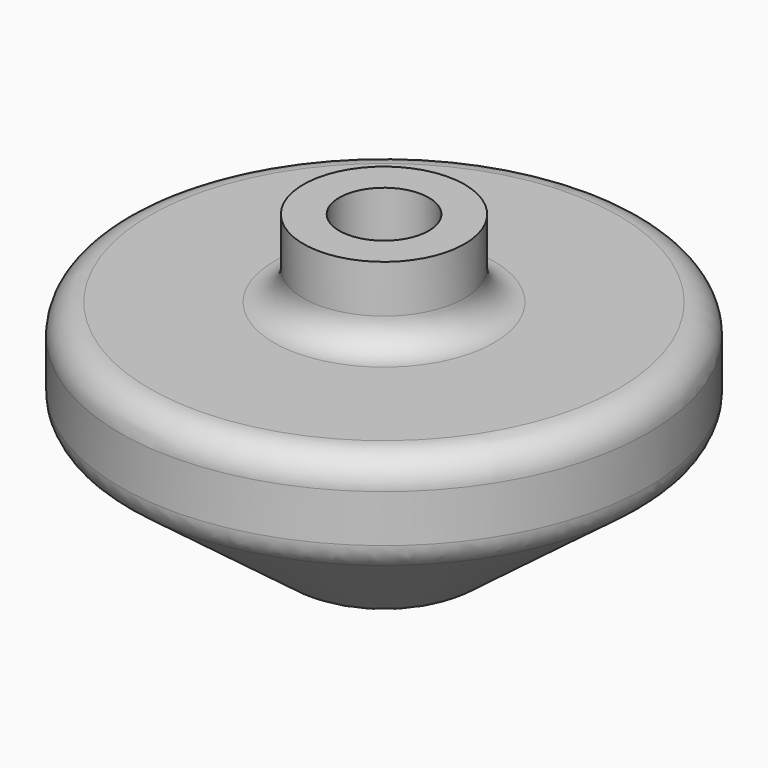
from build123d import *

# Parameters (mm, degrees)
F2_R     = 7.709402
F3_DEPTH = 88.9
F4_R     = 5.08
F5_R     = 5.08


with BuildPart() as f1:
    # F0 (on Front) → F1 (revolve)
    with BuildSketch(Plane.XZ):
        Polygon((0, 63.5), (0, 0), (45.4152, 34.417), (45.4152, 50.1904), (13.868312, 50.1904), (13.868312, 63.5), align=None)
    revolve(axis=Axis((0, 0, 31.75), (0, 0, -1)))

    # F2 (on face) → F3 (cut)
    with BuildSketch(Plane.XY.offset(63.5)):
        Circle(F2_R)
    extrude(amount=-F3_DEPTH, mode=Mode.SUBTRACT)

    # F4
    f4_edges = [f1.edges().sort_by_distance(p)[0] for p in [
        (-45.4152, 0, 50.1904),
        (-13.868312, 0, 50.1904),
    ]]
    fillet(f4_edges, radius=F4_R)

    # F5
    f5_edges = [f1.edges().sort_by_distance(p)[0] for p in [
        (-7.709402, 0, 5.842416),
        (26.562301, 0, 20.129708),
        (-45.4152, 0, 34.417),
    ]]
    fillet(f5_edges, radius=F5_R)


solid = f1.part
